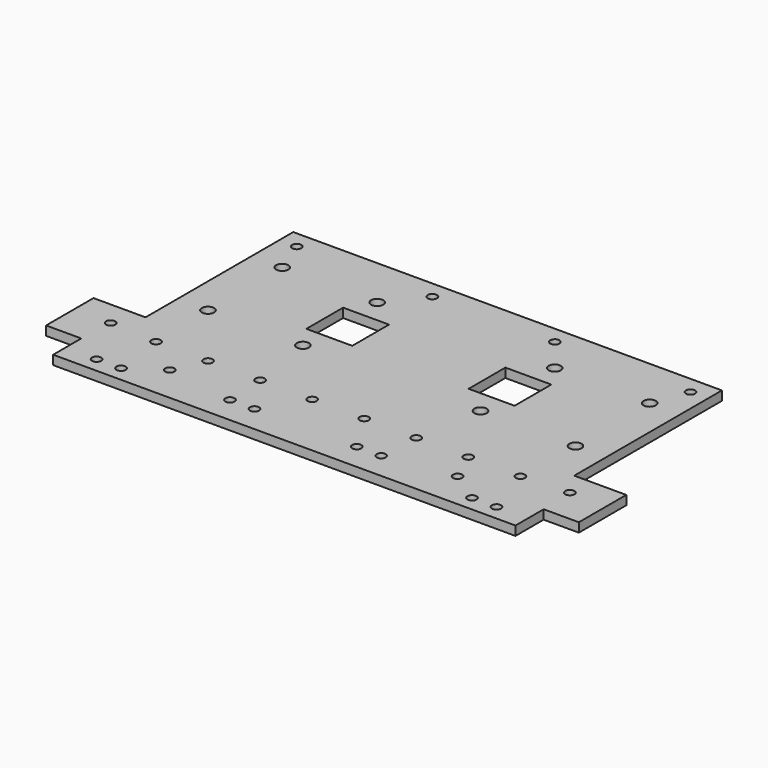
from build123d import *

# Parameters (mm, degrees)
SKETCH_R   = 2
SKETCH_R_2 = 1.5
PAD_DEPTH  = 3


with BuildPart() as part:
    # Sketch → Pad (new body)
    with BuildSketch(Plane.XY):
        Polygon((87, 0), (87, 91.15), (17, 91.15), (17, 30.85), (0, 30.85), (0, 11.5), (11.5, 11.5), (11.5, 0), align=None)
        with Locations((27, 74.15)):
            Circle(SKETCH_R, mode=Mode.SUBTRACT)
        with Locations((58, 74.15)):
            Circle(SKETCH_R, mode=Mode.SUBTRACT)
        with Locations((58, 43.85)):
            Circle(SKETCH_R, mode=Mode.SUBTRACT)
        with Locations((27, 43.85)):
            Circle(SKETCH_R, mode=Mode.SUBTRACT)
        with Locations((21.7, 5)):
            Circle(SKETCH_R_2, mode=Mode.SUBTRACT)
        with Locations((29.7, 5)):
            Circle(SKETCH_R_2, mode=Mode.SUBTRACT)
        with Locations((70.3, 8.7)):
            Circle(SKETCH_R_2, mode=Mode.SUBTRACT)
        with Locations((62.3, 8.7)):
            Circle(SKETCH_R_2, mode=Mode.SUBTRACT)
        with Locations((22.7, 85.45)):
            Circle(SKETCH_R_2, mode=Mode.SUBTRACT)
        with Locations((67, 85.45)):
            Circle(SKETCH_R_2, mode=Mode.SUBTRACT)
        with Locations((27.5, 22)):
            Circle(SKETCH_R_2, mode=Mode.SUBTRACT)
        with Locations((44.5, 22)):
            Circle(SKETCH_R_2, mode=Mode.SUBTRACT)
        with Locations((61.5, 22)):
            Circle(SKETCH_R_2, mode=Mode.SUBTRACT)
        with Locations((78.5, 22)):
            Circle(SKETCH_R_2, mode=Mode.SUBTRACT)
        with Locations((12, 22.85)):
            Circle(SKETCH_R_2, mode=Mode.SUBTRACT)
        with Locations((40, 12)):
            Circle(SKETCH_R_2, mode=Mode.SUBTRACT)
        Polygon((68, 59), (68, 66.5), (53, 66.5), (53, 51.5), (68, 51.5), align=None, mode=Mode.SUBTRACT)
    pad = extrude(amount=PAD_DEPTH)

    # Mirrored: Pad across face of Pad
    add(pad.mirror(Plane(origin=(87, 45.575, 1.5), x_dir=(0, 1, 0), z_dir=(1, 0, 0))))


solid = part.part
